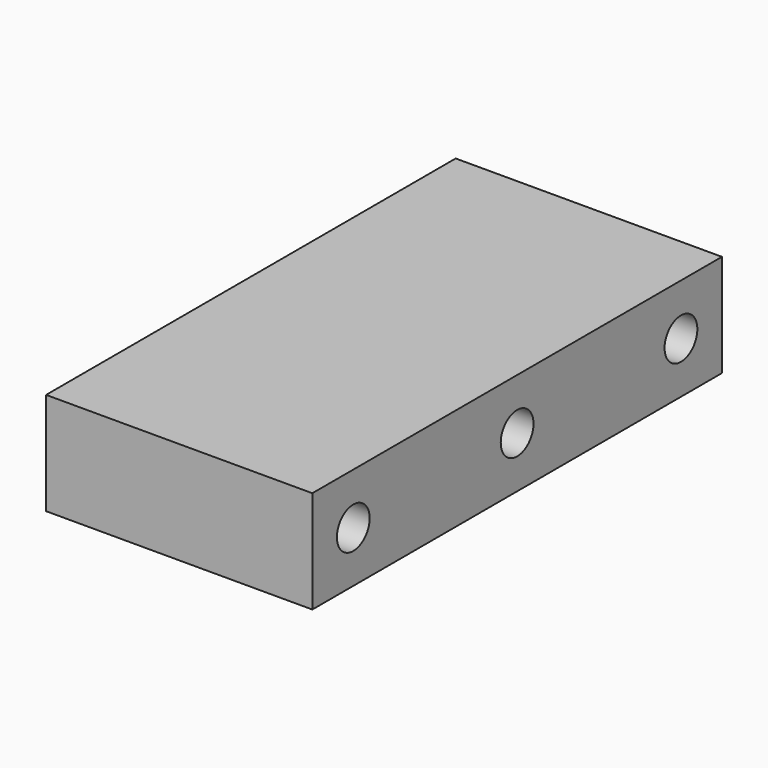
from build123d import *

# Parameters (mm, degrees)
F0_W          = 26
F0_H          = 50
F1_DEPTH      = 5
F1_DEPTH_BACK = 5
F2_R          = 2
F3_DEPTH      = 26.001
F4_DEPTH      = 26.001


with BuildPart() as f1:
    # F0 (on Top) → F1 (new body, two sides)
    with BuildSketch(Plane.XY) as f1_sk:
        Rectangle(F0_W, F0_H)
    extrude(amount=F1_DEPTH)
    extrude(f1_sk.sketch, amount=-F1_DEPTH_BACK)

    # F2 (on face) → F3 (cut, through all)
    with BuildSketch(Plane(origin=(-13, 0, 0), x_dir=(0, -1, 0), z_dir=(-1, 0, 0))):
        Circle(F2_R)
        with Locations((20, 0)):
            Circle(F2_R)
        with Locations((-20, 0)):
            Circle(F2_R)
    extrude(amount=-F3_DEPTH, mode=Mode.SUBTRACT)

    # F2 (on face) → F4 (cut, through all)
    with BuildSketch(Plane(origin=(-13, 0, 0), x_dir=(0, -1, 0), z_dir=(-1, 0, 0))):
        Circle(F2_R)
        with Locations((20, 0)):
            Circle(F2_R)
        with Locations((-20, 0)):
            Circle(F2_R)
    extrude(amount=-F4_DEPTH, mode=Mode.SUBTRACT)


solid = f1.part
